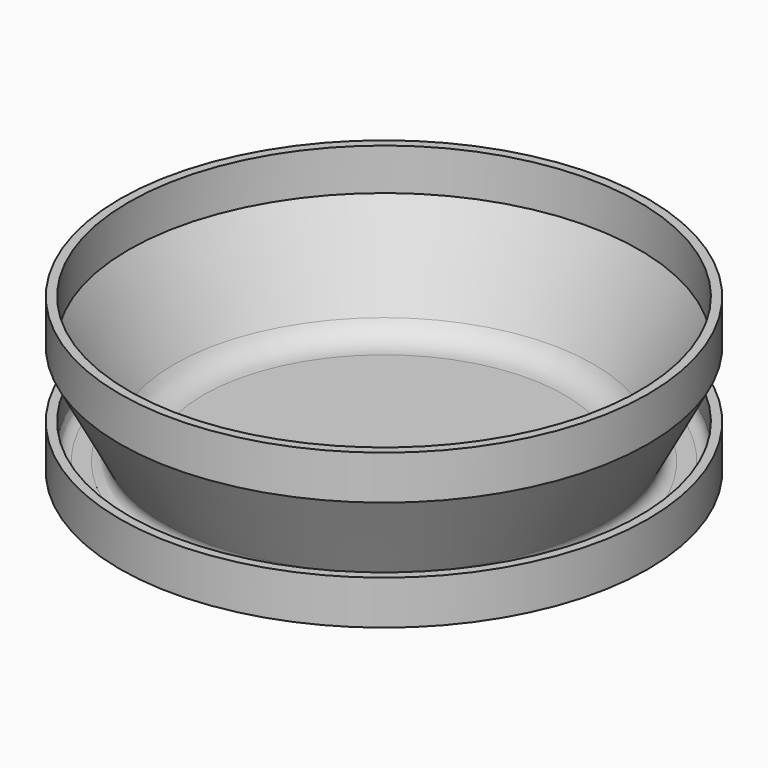
from build123d import *


with BuildPart() as f1:
    # F0 (on Front) → F1 (revolve)
    with BuildSketch(Plane.XZ):
        with BuildLine():
            Line((-46.707264, 0), (0, 0))
            Line((0, 0), (0, 2))
            Line((0, 2), (-40.999088, 2))
            ThreePointArc((-40.999088, 2), (-44.861874, 3.071245), (-47.621195, 5.978963))
            Line((-47.621195, 5.978963), (-58, 25.498656))
            Line((-58, 25.498656), (-58, 35))
            Line((-58, 35), (-60, 35))
            Line((-60, 35), (-60, 25))
            Line((-60, 25), (-49.724013, 5.673679))
            ThreePointArc((-49.724013, 5.673679), (-49.788464, 3.212405), (-51.931382, 2))
            Line((-51.931382, 2), (-55.5, 2))
            ThreePointArc((-55.5, 2), (-57.267767, 2.732233), (-58, 4.5))
            Line((-58, 4.5), (-58, 10))
            Line((-58, 10), (-60, 10))
            Line((-60, 10), (-60, 0))
            Line((-60, 0), (-46.707264, 0))
        make_face()
    revolve(axis=Axis((0, 0, 1), (0, 0, -1)))


solid = f1.part
